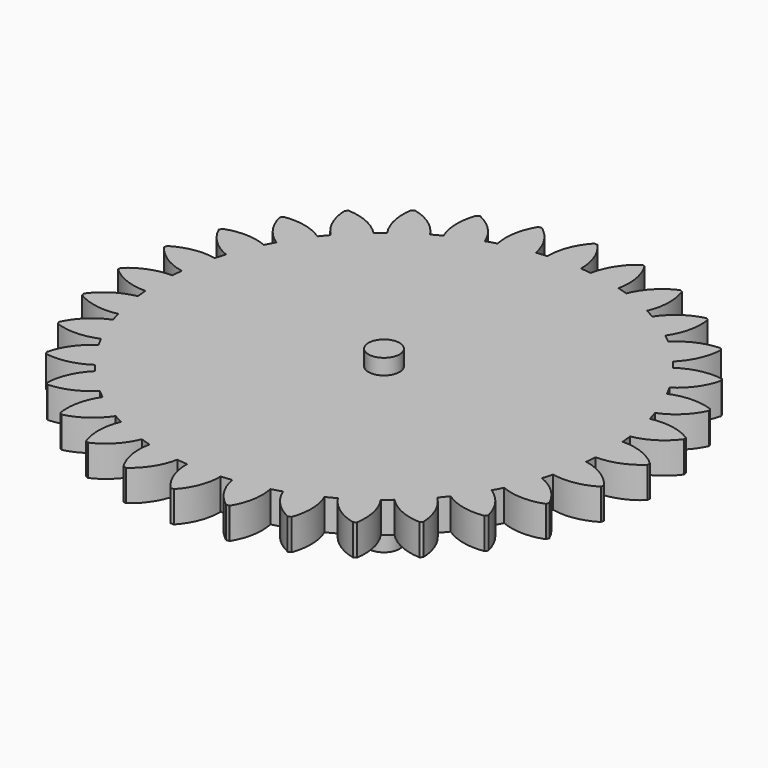
from build123d import *

# Parameters (mm, degrees)
F1_DEPTH      = 20
F2_R          = 10
F3_DEPTH      = 10
F3_DEPTH_BACK = 100


with BuildPart() as f1:
    # F0 (on Top) → F1 (new body)
    with BuildSketch(Plane.XY):
        with BuildLine():
            ThreePointArc((144.597641, -10.794539), (144.899375, -5.401018), (145, 0))
            ThreePointArc((145, 0), (144.899375, 5.401018), (144.597641, 10.794539))
            ThreePointArc((144.597641, 10.794539), (144.301785, 14.212485), (143.925148, 17.622475))
            ThreePointArc((143.925148, 17.622475), (142.213866, 28.288097), (139.713328, 38.796726))
            ThreePointArc((139.713328, 38.796726), (138.756349, 42.091278), (137.721693, 45.362268))
            ThreePointArc((137.721693, 45.362268), (133.962532, 55.489098), (129.45991, 65.307975))
            ThreePointArc((129.45991, 65.307975), (127.878583, 68.352527), (126.22567, 71.358814))
            ThreePointArc((126.22567, 71.358814), (120.563094, 80.557684), (114.23142, 89.309477))
            ThreePointArc((114.23142, 89.309477), (112.086516, 91.987026), (109.878865, 94.613081))
            ThreePointArc((109.878865, 94.613081), (102.530483, 102.530483), (94.613081, 109.878865))
            ThreePointArc((94.613081, 109.878865), (91.987026, 112.086516), (89.309477, 114.23142))
            ThreePointArc((89.309477, 114.23142), (80.557684, 120.563094), (71.358814, 126.22567))
            ThreePointArc((71.358814, 126.22567), (68.352527, 127.878583), (65.307975, 129.45991))
            ThreePointArc((65.307975, 129.45991), (55.489098, 133.962532), (45.362268, 137.721693))
            ThreePointArc((45.362268, 137.721693), (42.091278, 138.756349), (38.796726, 139.713328))
            ThreePointArc((38.796726, 139.713328), (28.288097, 142.213866), (17.622475, 143.925148))
            ThreePointArc((17.622475, 143.925148), (14.212485, 144.301785), (10.794539, 144.597641))
            ThreePointArc((10.794539, 144.597641), (5.401018, 144.899375), (0, 145))
            ThreePointArc((0, 145), (-5.401018, 144.899375), (-10.794539, 144.597641))
            ThreePointArc((-10.794539, 144.597641), (-14.212485, 144.301785), (-17.622475, 143.925148))
            ThreePointArc((-17.622475, 143.925148), (-28.288097, 142.213866), (-38.796726, 139.713328))
            ThreePointArc((-38.796726, 139.713328), (-42.091278, 138.756349), (-45.362268, 137.721693))
            ThreePointArc((-45.362268, 137.721693), (-55.489098, 133.962532), (-65.307975, 129.45991))
            ThreePointArc((-65.307975, 129.45991), (-68.352527, 127.878583), (-71.358814, 126.22567))
            ThreePointArc((-71.358814, 126.22567), (-80.557684, 120.563094), (-89.309477, 114.23142))
            ThreePointArc((-89.309477, 114.23142), (-91.987026, 112.086516), (-94.613081, 109.878865))
            ThreePointArc((-94.613081, 109.878865), (-102.530483, 102.530483), (-109.878865, 94.613081))
            ThreePointArc((-109.878865, 94.613081), (-112.086516, 91.987026), (-114.23142, 89.309477))
            ThreePointArc((-114.23142, 89.309477), (-120.563094, 80.557684), (-126.22567, 71.358814))
            ThreePointArc((-126.22567, 71.358814), (-127.878583, 68.352527), (-129.45991, 65.307975))
            ThreePointArc((-129.45991, 65.307975), (-133.962532, 55.489098), (-137.721693, 45.362268))
            ThreePointArc((-137.721693, 45.362268), (-138.756349, 42.091278), (-139.713328, 38.796726))
            ThreePointArc((-139.713328, 38.796726), (-142.213866, 28.288097), (-143.925148, 17.622475))
            ThreePointArc((-143.925148, 17.622475), (-144.301785, 14.212485), (-144.597641, 10.794539))
            ThreePointArc((-144.597641, 10.794539), (-145, 0), (-144.597641, -10.794539))
            ThreePointArc((-144.597641, -10.794539), (-144.301785, -14.212485), (-143.925148, -17.622475))
            ThreePointArc((-143.925148, -17.622475), (-142.213866, -28.288097), (-139.713328, -38.796726))
            ThreePointArc((-139.713328, -38.796726), (-138.756349, -42.091278), (-137.721693, -45.362268))
            ThreePointArc((-137.721693, -45.362268), (-133.962532, -55.489098), (-129.45991, -65.307975))
            ThreePointArc((-129.45991, -65.307975), (-127.878583, -68.352527), (-126.22567, -71.358814))
            ThreePointArc((-126.22567, -71.358814), (-120.563094, -80.557684), (-114.23142, -89.309477))
            ThreePointArc((-114.23142, -89.309477), (-112.086516, -91.987026), (-109.878865, -94.613081))
            ThreePointArc((-109.878865, -94.613081), (-102.530483, -102.530483), (-94.613081, -109.878865))
            ThreePointArc((-94.613081, -109.878865), (-91.987026, -112.086516), (-89.309477, -114.23142))
            ThreePointArc((-89.309477, -114.23142), (-80.557684, -120.563094), (-71.358814, -126.22567))
            ThreePointArc((-71.358814, -126.22567), (-68.352527, -127.878583), (-65.307975, -129.45991))
            ThreePointArc((-65.307975, -129.45991), (-55.489098, -133.962532), (-45.362268, -137.721693))
            ThreePointArc((-45.362268, -137.721693), (-42.091278, -138.756349), (-38.796726, -139.713328))
            ThreePointArc((-38.796726, -139.713328), (-28.288097, -142.213866), (-17.622475, -143.925148))
            ThreePointArc((-17.622475, -143.925148), (-14.212485, -144.301785), (-10.794539, -144.597641))
            ThreePointArc((-10.794539, -144.597641), (0, -145), (10.794539, -144.597641))
            ThreePointArc((10.794539, -144.597641), (14.212485, -144.301785), (17.622475, -143.925148))
            ThreePointArc((17.622475, -143.925148), (28.288097, -142.213866), (38.796726, -139.713328))
            ThreePointArc((38.796726, -139.713328), (42.091278, -138.756349), (45.362268, -137.721693))
            ThreePointArc((45.362268, -137.721693), (55.489098, -133.962532), (65.307975, -129.45991))
            ThreePointArc((65.307975, -129.45991), (68.352527, -127.878583), (71.358814, -126.22567))
            ThreePointArc((71.358814, -126.22567), (80.557684, -120.563094), (89.309477, -114.23142))
            ThreePointArc((89.309477, -114.23142), (91.987026, -112.086516), (94.613081, -109.878865))
            ThreePointArc((94.613081, -109.878865), (102.530483, -102.530483), (109.878865, -94.613081))
            ThreePointArc((109.878865, -94.613081), (112.086516, -91.987026), (114.23142, -89.309477))
            ThreePointArc((114.23142, -89.309477), (120.563094, -80.557684), (126.22567, -71.358814))
            ThreePointArc((126.22567, -71.358814), (127.878583, -68.352527), (129.45991, -65.307975))
            ThreePointArc((129.45991, -65.307975), (133.962532, -55.489098), (137.721693, -45.362268))
            ThreePointArc((137.721693, -45.362268), (138.756349, -42.091278), (139.713328, -38.796726))
            ThreePointArc((139.713328, -38.796726), (142.213866, -28.288097), (143.925148, -17.622475))
            ThreePointArc((143.925148, -17.622475), (144.301785, -14.212485), (144.597641, -10.794539))
        make_face()
        with BuildLine():
            ThreePointArc((144.597641, 10.794539), (144.899375, 5.401018), (145, 0))
            ThreePointArc((145, 0), (144.899375, -5.401018), (144.597641, -10.794539))
            ThreePointArc((144.597641, -10.794539), (158.237985, -8.333013), (170, -1))
            Line((170, -1), (170, 0))
            Line((170, 0), (170, 1))
            ThreePointArc((170, 1), (158.237985, 8.333013), (144.597641, 10.794539))
        make_face()
        with BuildLine():
            ThreePointArc((139.713328, 38.796726), (142.213866, 28.288097), (143.925148, 17.622475))
            ThreePointArc((143.925148, 17.622475), (156.823176, 22.697803), (166.928588, 32.184569))
            Line((166.928588, 32.184569), (166.733498, 33.165355))
            Line((166.733498, 33.165355), (166.538407, 34.14614))
            ThreePointArc((166.538407, 34.14614), (153.571796, 39.043596), (139.713328, 38.796726))
        make_face()
        with BuildLine():
            ThreePointArc((166.928588, -32.184569), (156.823176, -22.697803), (143.925148, -17.622475))
            ThreePointArc((143.925148, -17.622475), (142.213866, -28.288097), (139.713328, -38.796726))
            ThreePointArc((139.713328, -38.796726), (153.571796, -39.043596), (166.538407, -34.14614))
            Line((166.538407, -34.14614), (166.733498, -33.165355))
            Line((166.733498, -33.165355), (166.928588, -32.184569))
        make_face()
        with BuildLine():
            ThreePointArc((129.45991, 65.307975), (133.962532, 55.489098), (137.721693, 45.362268))
            ThreePointArc((137.721693, 45.362268), (149.381741, 52.856355), (157.442204, 64.132304))
            Line((157.442204, 64.132304), (157.059521, 65.056184))
            Line((157.059521, 65.056184), (156.676837, 65.980063))
            ThreePointArc((156.676837, 65.980063), (143.00393, 68.253755), (129.45991, 65.307975))
        make_face()
        with BuildLine():
            ThreePointArc((157.442204, -64.132304), (149.381741, -52.856355), (137.721693, -45.362268))
            ThreePointArc((137.721693, -45.362268), (133.962532, -55.489098), (129.45991, -65.307975))
            ThreePointArc((129.45991, -65.307975), (143.00393, -68.253755), (156.676837, -65.980063))
            Line((156.676837, -65.980063), (157.059521, -65.056184))
            Line((157.059521, -65.056184), (157.442204, -64.132304))
        make_face()
        with BuildLine():
            ThreePointArc((114.23142, 89.309477), (120.563094, 80.557684), (126.22567, 71.358814))
            ThreePointArc((126.22567, 71.358814), (136.19965, 80.983667), (141.905404, 93.61547))
            Line((141.905404, 93.61547), (141.349834, 94.44694))
            Line((141.349834, 94.44694), (140.794264, 95.278409))
            ThreePointArc((140.794264, 95.278409), (126.940502, 94.840961), (114.23142, 89.309477))
        make_face()
        with BuildLine():
            ThreePointArc((141.905404, -93.61547), (136.19965, -80.983667), (126.22567, -71.358814))
            ThreePointArc((126.22567, -71.358814), (120.563094, -80.557684), (114.23142, -89.309477))
            ThreePointArc((114.23142, -89.309477), (126.940502, -94.840961), (140.794264, -95.278409))
            Line((140.794264, -95.278409), (141.349834, -94.44694))
            Line((141.349834, -94.44694), (141.905404, -93.61547))
        make_face()
        with BuildLine():
            ThreePointArc((94.613081, 109.878865), (102.530483, 102.530483), (109.878865, 94.613081))
            ThreePointArc((109.878865, 94.613081), (117.783482, 105.998822), (120.91526, 119.501046))
            Line((120.91526, 119.501046), (120.208153, 120.208153))
            Line((120.208153, 120.208153), (119.501046, 120.91526))
            ThreePointArc((119.501046, 120.91526), (105.998822, 117.783482), (94.613081, 109.878865))
        make_face()
        with BuildLine():
            ThreePointArc((120.91526, -119.501046), (117.783482, -105.998822), (109.878865, -94.613081))
            ThreePointArc((109.878865, -94.613081), (102.530483, -102.530483), (94.613081, -109.878865))
            ThreePointArc((94.613081, -109.878865), (105.998822, -117.783482), (119.501046, -120.91526))
            Line((119.501046, -120.91526), (120.208153, -120.208153))
            Line((120.208153, -120.208153), (120.91526, -119.501046))
        make_face()
        with BuildLine():
            ThreePointArc((71.358814, 126.22567), (80.557684, 120.563094), (89.309477, 114.23142))
            ThreePointArc((89.309477, 114.23142), (94.840961, 126.940502), (95.278409, 140.794264))
            Line((95.278409, 140.794264), (94.44694, 141.349834))
            Line((94.44694, 141.349834), (93.61547, 141.905404))
            ThreePointArc((93.61547, 141.905404), (80.983667, 136.19965), (71.358814, 126.22567))
        make_face()
        with BuildLine():
            ThreePointArc((95.278409, -140.794264), (94.840961, -126.940502), (89.309477, -114.23142))
            ThreePointArc((89.309477, -114.23142), (80.557684, -120.563094), (71.358814, -126.22567))
            ThreePointArc((71.358814, -126.22567), (80.983667, -136.19965), (93.61547, -141.905404))
            Line((93.61547, -141.905404), (94.44694, -141.349834))
            Line((94.44694, -141.349834), (95.278409, -140.794264))
        make_face()
        with BuildLine():
            ThreePointArc((45.362268, 137.721693), (55.489098, 133.962532), (65.307975, 129.45991))
            ThreePointArc((65.307975, 129.45991), (68.253755, 143.00393), (65.980063, 156.676837))
            Line((65.980063, 156.676837), (65.056184, 157.059521))
            Line((65.056184, 157.059521), (64.132304, 157.442204))
            ThreePointArc((64.132304, 157.442204), (52.856355, 149.381741), (45.362268, 137.721693))
        make_face()
        with BuildLine():
            ThreePointArc((65.980063, -156.676837), (68.253755, -143.00393), (65.307975, -129.45991))
            ThreePointArc((65.307975, -129.45991), (55.489098, -133.962532), (45.362268, -137.721693))
            ThreePointArc((45.362268, -137.721693), (52.856355, -149.381741), (64.132304, -157.442204))
            Line((64.132304, -157.442204), (65.056184, -157.059521))
            Line((65.056184, -157.059521), (65.980063, -156.676837))
        make_face()
        with BuildLine():
            ThreePointArc((17.622475, 143.925148), (28.288097, 142.213866), (38.796726, 139.713328))
            ThreePointArc((38.796726, 139.713328), (39.043596, 153.571796), (34.14614, 166.538407))
            Line((34.14614, 166.538407), (33.165355, 166.733498))
            Line((33.165355, 166.733498), (32.184569, 166.928588))
            ThreePointArc((32.184569, 166.928588), (22.697803, 156.823176), (17.622475, 143.925148))
        make_face()
        with BuildLine():
            ThreePointArc((34.14614, -166.538407), (39.043596, -153.571796), (38.796726, -139.713328))
            ThreePointArc((38.796726, -139.713328), (28.288097, -142.213866), (17.622475, -143.925148))
            ThreePointArc((17.622475, -143.925148), (22.697803, -156.823176), (32.184569, -166.928588))
            Line((32.184569, -166.928588), (33.165355, -166.733498))
            Line((33.165355, -166.733498), (34.14614, -166.538407))
        make_face()
        with BuildLine():
            ThreePointArc((0, 145), (5.401018, 144.899375), (10.794539, 144.597641))
            ThreePointArc((10.794539, 144.597641), (8.333013, 158.237985), (1, 170))
            Line((1, 170), (0, 170))
            Line((0, 170), (0, 145))
        make_face()
        with BuildLine():
            ThreePointArc((1, -170), (8.333013, -158.237985), (10.794539, -144.597641))
            ThreePointArc((10.794539, -144.597641), (0, -145), (-10.794539, -144.597641))
            ThreePointArc((-10.794539, -144.597641), (-8.333013, -158.237985), (-1, -170))
            Line((-1, -170), (0, -170))
            Line((0, -170), (1, -170))
        make_face()
        with BuildLine():
            ThreePointArc((-10.794539, 144.597641), (-5.401018, 144.899375), (0, 145))
            Line((0, 145), (0, 170))
            Line((0, 170), (-1, 170))
            ThreePointArc((-1, 170), (-8.333013, 158.237985), (-10.794539, 144.597641))
        make_face()
        with BuildLine():
            ThreePointArc((-32.184569, -166.928588), (-22.697803, -156.823176), (-17.622475, -143.925148))
            ThreePointArc((-17.622475, -143.925148), (-28.288097, -142.213866), (-38.796726, -139.713328))
            ThreePointArc((-38.796726, -139.713328), (-39.043596, -153.571796), (-34.14614, -166.538407))
            Line((-34.14614, -166.538407), (-33.165355, -166.733498))
            Line((-33.165355, -166.733498), (-32.184569, -166.928588))
        make_face()
        with BuildLine():
            ThreePointArc((-38.796726, 139.713328), (-28.288097, 142.213866), (-17.622475, 143.925148))
            ThreePointArc((-17.622475, 143.925148), (-22.697803, 156.823176), (-32.184569, 166.928588))
            Line((-32.184569, 166.928588), (-33.165355, 166.733498))
            Line((-33.165355, 166.733498), (-34.14614, 166.538407))
            ThreePointArc((-34.14614, 166.538407), (-39.043596, 153.571796), (-38.796726, 139.713328))
        make_face()
        with BuildLine():
            ThreePointArc((-64.132304, -157.442204), (-52.856355, -149.381741), (-45.362268, -137.721693))
            ThreePointArc((-45.362268, -137.721693), (-55.489098, -133.962532), (-65.307975, -129.45991))
            ThreePointArc((-65.307975, -129.45991), (-68.253755, -143.00393), (-65.980063, -156.676837))
            Line((-65.980063, -156.676837), (-65.056184, -157.059521))
            Line((-65.056184, -157.059521), (-64.132304, -157.442204))
        make_face()
        with BuildLine():
            ThreePointArc((-65.307975, 129.45991), (-55.489098, 133.962532), (-45.362268, 137.721693))
            ThreePointArc((-45.362268, 137.721693), (-52.856355, 149.381741), (-64.132304, 157.442204))
            Line((-64.132304, 157.442204), (-65.056184, 157.059521))
            Line((-65.056184, 157.059521), (-65.980063, 156.676837))
            ThreePointArc((-65.980063, 156.676837), (-68.253755, 143.00393), (-65.307975, 129.45991))
        make_face()
        with BuildLine():
            ThreePointArc((-93.61547, -141.905404), (-80.983667, -136.19965), (-71.358814, -126.22567))
            ThreePointArc((-71.358814, -126.22567), (-80.557684, -120.563094), (-89.309477, -114.23142))
            ThreePointArc((-89.309477, -114.23142), (-94.840961, -126.940502), (-95.278409, -140.794264))
            Line((-95.278409, -140.794264), (-94.44694, -141.349834))
            Line((-94.44694, -141.349834), (-93.61547, -141.905404))
        make_face()
        with BuildLine():
            ThreePointArc((-89.309477, 114.23142), (-80.557684, 120.563094), (-71.358814, 126.22567))
            ThreePointArc((-71.358814, 126.22567), (-80.983667, 136.19965), (-93.61547, 141.905404))
            Line((-93.61547, 141.905404), (-94.44694, 141.349834))
            Line((-94.44694, 141.349834), (-95.278409, 140.794264))
            ThreePointArc((-95.278409, 140.794264), (-94.840961, 126.940502), (-89.309477, 114.23142))
        make_face()
        with BuildLine():
            ThreePointArc((-119.501046, -120.91526), (-105.998822, -117.783482), (-94.613081, -109.878865))
            ThreePointArc((-94.613081, -109.878865), (-102.530483, -102.530483), (-109.878865, -94.613081))
            ThreePointArc((-109.878865, -94.613081), (-117.783482, -105.998822), (-120.91526, -119.501046))
            Line((-120.91526, -119.501046), (-120.208153, -120.208153))
            Line((-120.208153, -120.208153), (-119.501046, -120.91526))
        make_face()
        with BuildLine():
            ThreePointArc((-109.878865, 94.613081), (-102.530483, 102.530483), (-94.613081, 109.878865))
            ThreePointArc((-94.613081, 109.878865), (-105.998822, 117.783482), (-119.501046, 120.91526))
            Line((-119.501046, 120.91526), (-120.208153, 120.208153))
            Line((-120.208153, 120.208153), (-120.91526, 119.501046))
            ThreePointArc((-120.91526, 119.501046), (-117.783482, 105.998822), (-109.878865, 94.613081))
        make_face()
        with BuildLine():
            ThreePointArc((-140.794264, -95.278409), (-126.940502, -94.840961), (-114.23142, -89.309477))
            ThreePointArc((-114.23142, -89.309477), (-120.563094, -80.557684), (-126.22567, -71.358814))
            ThreePointArc((-126.22567, -71.358814), (-136.19965, -80.983667), (-141.905404, -93.61547))
            Line((-141.905404, -93.61547), (-141.349834, -94.44694))
            Line((-141.349834, -94.44694), (-140.794264, -95.278409))
        make_face()
        with BuildLine():
            ThreePointArc((-126.22567, 71.358814), (-120.563094, 80.557684), (-114.23142, 89.309477))
            ThreePointArc((-114.23142, 89.309477), (-126.940502, 94.840961), (-140.794264, 95.278409))
            Line((-140.794264, 95.278409), (-141.349834, 94.44694))
            Line((-141.349834, 94.44694), (-141.905404, 93.61547))
            ThreePointArc((-141.905404, 93.61547), (-136.19965, 80.983667), (-126.22567, 71.358814))
        make_face()
        with BuildLine():
            ThreePointArc((-156.676837, -65.980063), (-143.00393, -68.253755), (-129.45991, -65.307975))
            ThreePointArc((-129.45991, -65.307975), (-133.962532, -55.489098), (-137.721693, -45.362268))
            ThreePointArc((-137.721693, -45.362268), (-149.381741, -52.856355), (-157.442204, -64.132304))
            Line((-157.442204, -64.132304), (-157.059521, -65.056184))
            Line((-157.059521, -65.056184), (-156.676837, -65.980063))
        make_face()
        with BuildLine():
            ThreePointArc((-137.721693, 45.362268), (-133.962532, 55.489098), (-129.45991, 65.307975))
            ThreePointArc((-129.45991, 65.307975), (-143.00393, 68.253755), (-156.676837, 65.980063))
            Line((-156.676837, 65.980063), (-157.059521, 65.056184))
            Line((-157.059521, 65.056184), (-157.442204, 64.132304))
            ThreePointArc((-157.442204, 64.132304), (-149.381741, 52.856355), (-137.721693, 45.362268))
        make_face()
        with BuildLine():
            ThreePointArc((-166.538407, -34.14614), (-153.571796, -39.043596), (-139.713328, -38.796726))
            ThreePointArc((-139.713328, -38.796726), (-142.213866, -28.288097), (-143.925148, -17.622475))
            ThreePointArc((-143.925148, -17.622475), (-156.823176, -22.697803), (-166.928588, -32.184569))
            Line((-166.928588, -32.184569), (-166.733498, -33.165355))
            Line((-166.733498, -33.165355), (-166.538407, -34.14614))
        make_face()
        with BuildLine():
            ThreePointArc((-143.925148, 17.622475), (-142.213866, 28.288097), (-139.713328, 38.796726))
            ThreePointArc((-139.713328, 38.796726), (-153.571796, 39.043596), (-166.538407, 34.14614))
            Line((-166.538407, 34.14614), (-166.733498, 33.165355))
            Line((-166.733498, 33.165355), (-166.928588, 32.184569))
            ThreePointArc((-166.928588, 32.184569), (-156.823176, 22.697803), (-143.925148, 17.622475))
        make_face()
        with BuildLine():
            ThreePointArc((-170, -1), (-158.237985, -8.333013), (-144.597641, -10.794539))
            ThreePointArc((-144.597641, -10.794539), (-145, 0), (-144.597641, 10.794539))
            ThreePointArc((-144.597641, 10.794539), (-158.237985, 8.333013), (-170, 1))
            Line((-170, 1), (-170, 0))
            Line((-170, 0), (-170, -1))
        make_face()
    extrude(amount=F1_DEPTH)

    # F2 (on face) → F3 (join, two sides)
    with BuildSketch(Plane.XY.offset(20)) as f3_sk:
        Circle(F2_R)
    extrude(amount=F3_DEPTH)
    extrude(f3_sk.sketch, amount=-F3_DEPTH_BACK)


solid = f1.part
